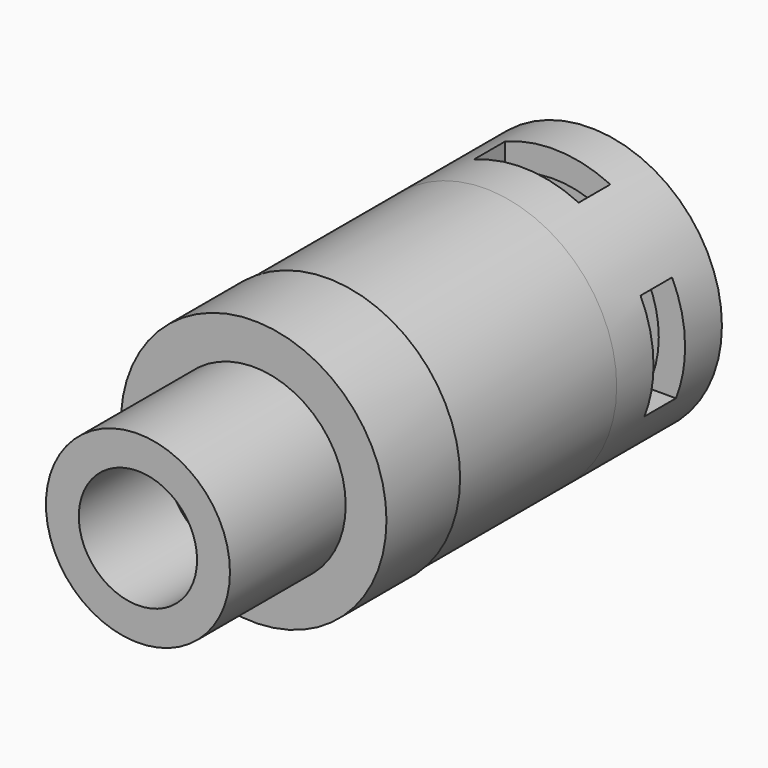
from build123d import *

# Parameters (mm, degrees)
F0_R      = 12.7
F1_DEPTH  = 12.7
F4_T      = -2.54
F2_W      = 3.81
F2_H      = 10.16
F5_DEPTH  = 12.7
F3_W      = 10.16
F3_H      = 3.81
F6_DEPTH  = 12.7
F8_R      = 12.699984
F8_R_2    = 10.170676
F9_DEPTH  = 19.05
F11_R     = 12.822139
F12_DEPTH = 8.89
F13_R     = 6.34653
F14_DEPTH = 10.414
F16_R     = 8.885422
F17_DEPTH = 13.97
F18_T     = -3.175


with BuildPart() as f1:
    # F0 (on Front) → F1 (new body)
    with BuildSketch(Plane.XZ):
        Circle(F0_R)
    extrude(amount=F1_DEPTH)

    # F4
    f4_openings = [f1.faces().sort_by_distance(p)[0] for p in [
        (0, -12.7, 0),
    ]]
    offset(amount=F4_T, openings=f4_openings)

    # F2 (on Right) → F5 (cut, symmetric)
    with BuildSketch(Plane.YZ):
        with Locations((-6.35, 0.421089)):
            Rectangle(F2_W, F2_H)
    extrude(amount=F5_DEPTH, both=True, mode=Mode.SUBTRACT)

    # F3 (on Top) → F6 (cut, symmetric)
    with BuildSketch(Plane.XY):
        with Locations((0.396187, -6.35)):
            Rectangle(F3_W, F3_H)
    extrude(amount=F6_DEPTH, both=True, mode=Mode.SUBTRACT)

    # F8 (on offset) → F9 (join)
    with BuildSketch(Plane.XZ.offset(12.7)):
        Circle(F8_R)
        Circle(F8_R_2, mode=Mode.SUBTRACT)
    extrude(amount=F9_DEPTH)

    # F11 (on offset) → F12 (join)
    with BuildSketch(Plane.XZ.offset(31.75)):
        Circle(F11_R)
    extrude(amount=F12_DEPTH)

    # F13 (on offset) → F14 (cut)
    with BuildSketch(Plane.XZ.offset(31.75)):
        Circle(F13_R)
    extrude(amount=F14_DEPTH, mode=Mode.SUBTRACT)


with BuildPart() as f17:
    # F16 (on offset) → F17 (new body)
    with BuildSketch(Plane.XZ.offset(40.64)):
        Circle(F16_R)
    extrude(amount=F17_DEPTH)

    # F18
    f18_openings = [f17.faces().sort_by_distance(p)[0] for p in [
        (0, -54.61, 0),
    ]]
    offset(amount=F18_T, openings=f18_openings)


solid = Compound([f1.part, f17.part])
